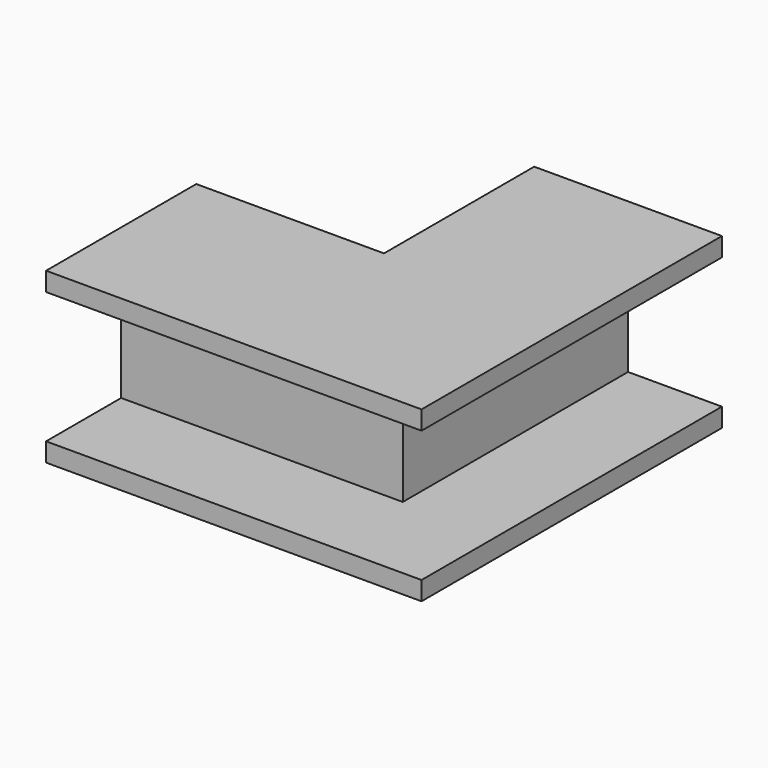
from build123d import *

# Parameters (mm, degrees)
F1_DEPTH = 18
F2_W     = 30
F2_H     = 2
F3_DEPTH = 10
F4_W     = 40
F4_H     = 2
F5_DEPTH = 10


with BuildPart() as f1:
    # F0 (on Top) → F1 (new body)
    with BuildSketch(Plane.XY):
        Polygon((0, 30), (-10, 30), (-10, 10), (-30, 10), (-30, 0), (0, 0), align=None)
    extrude(amount=F1_DEPTH)

    # F2 (on face) → F3 (join)
    with BuildSketch(Plane.YZ):
        with Locations((15, 1)):
            Rectangle(F2_W, F2_H)
        with Locations((15, 17)):
            Rectangle(F2_W, F2_H)
    extrude(amount=F3_DEPTH)

    # F4 (on face) → F5 (join)
    with BuildSketch(Plane.XZ):
        with Locations((-10, 17)):
            Rectangle(F4_W, F4_H)
        with Locations((-10, 1)):
            Rectangle(F4_W, F4_H)
    extrude(amount=F5_DEPTH)


solid = f1.part
